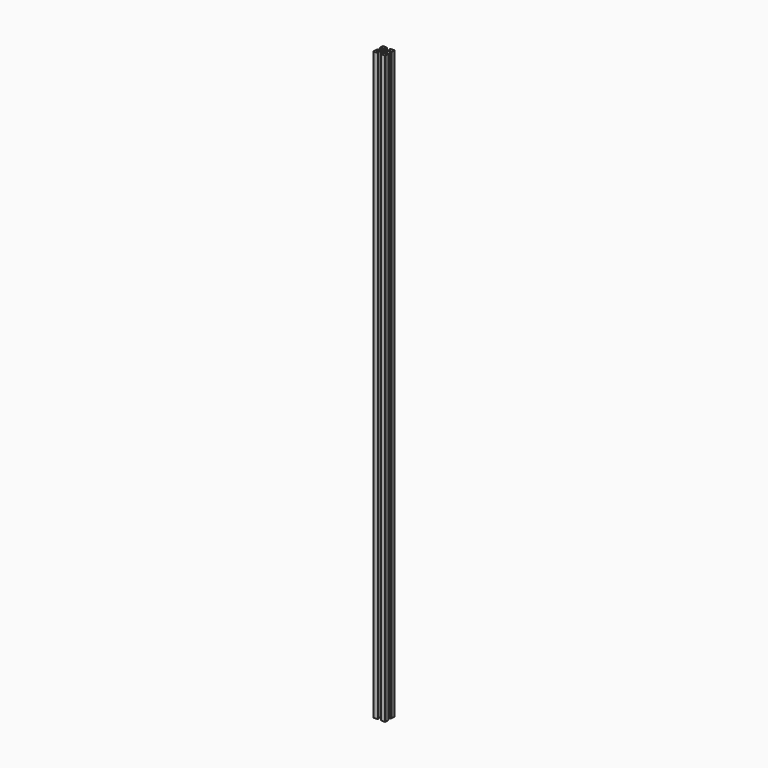
from build123d import *

# Parameters (mm, degrees)
F0_R     = 2.1
F1_DEPTH = 1000
F2_R     = 0.5


with BuildPart() as f1:
    # F0 (on Top) → F1 (new body)
    with BuildSketch(Plane.XY):
        Polygon((10, 3.1), (10, 10), (3.1, 10), (3.1, 9.5), (2.6, 9.5), (2.6, 8), (6.585786, 8), (2.085786, 3.5), (-2.085787, 3.5), (-6.585787, 8), (-2.6, 8), (-2.6, 9.5), (-3.1, 9.5), (-3.1, 10), (-10, 10), (-10, 3.1), (-9.5, 3.1), (-9.5, 2.6), (-8, 2.6), (-8, 6.585786), (-3.5, 2.085786), (-3.5, -2.085786), (-8, -6.585786), (-8, -2.6), (-9.5, -2.6), (-9.5, -3.1), (-10, -3.1), (-10, -10), (-3.1, -10), (-3.1, -9.5), (-2.6, -9.5), (-2.6, -8), (-6.585786, -8), (-2.085786, -3.5), (2.085786, -3.5), (6.585786, -8), (2.6, -8), (2.6, -9.5), (3.1, -9.5), (3.1, -10), (10, -10), (10, -3.1), (9.5, -3.1), (9.5, -2.6), (8, -2.6), (8, -6.585786), (3.5, -2.085786), (3.5, 2.085786), (8, 6.585786), (8, 2.6), (9.5, 2.6), (9.5, 3.1), align=None)
        Circle(F0_R, mode=Mode.SUBTRACT)
    extrude(amount=F1_DEPTH)

    # F2
    f2_edges = [f1.edges().sort_by_distance(p)[0] for p in [
        (-10, 10, 500),
        (-10, -10, 500),
        (10, -10, 500),
        (10, 10, 500),
        (6.585786, 8, 500),
        (8, 6.585786, 500),
        (-8, 6.585786, 500),
        (-6.585787, 8, 500),
        (-6.585786, -8, 500),
        (-8, -6.585786, 500),
        (8, -6.585786, 500),
        (6.585786, -8, 500),
        (2.6, 8, 500),
        (8, 2.6, 500),
        (8, -2.6, 500),
        (-8, -2.6, 500),
        (-2.6, -8, 500),
        (-2.6, 8, 500),
        (-8, 2.6, 500),
        (2.6, -8, 500),
    ]]
    fillet(f2_edges, radius=F2_R)


solid = f1.part
